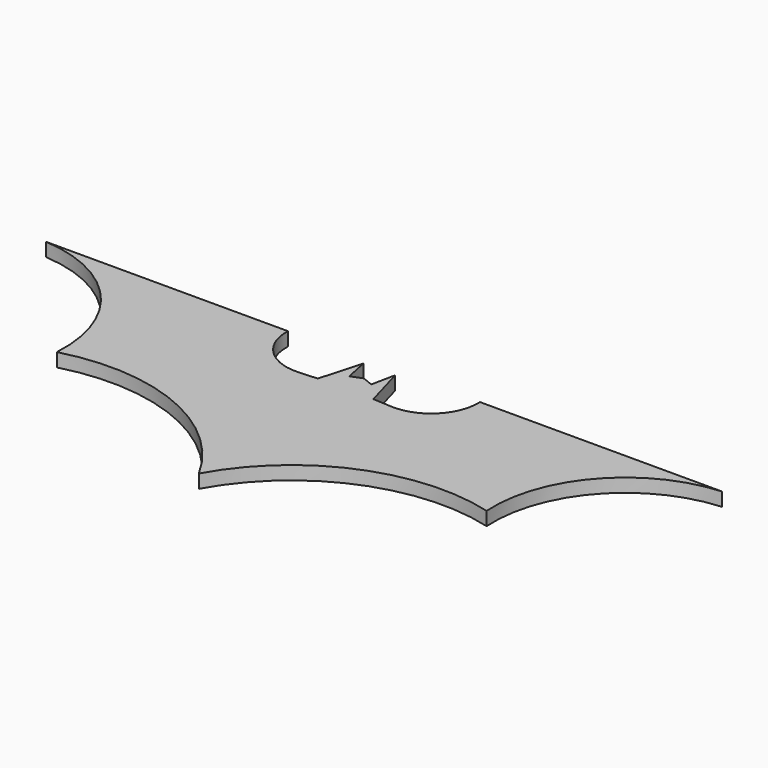
from build123d import *

# Parameters (mm, degrees)
PAD_DEPTH = 3


with BuildPart() as part:
    # Sketch → Pad (new body)
    with BuildSketch(Plane.XY):
        with BuildLine():
            Line((0, 0), (0, 14.502488))
            Line((0, 14.502488), (2.444644, 13.541802))
            Line((2.444644, 13.541802), (3.525413, 18.825575))
            Line((3.525413, 18.825575), (6.167308, 9.459041))
            Line((6.167308, 9.459041), (10.250262, 9.218303))
            ThreePointArc((10.250262, 9.218303), (18.202038, 12.211905), (21.296978, 20.124789))
            Line((21.296978, 20.124789), (75, 20.124789))
            ThreePointArc((75, 20.124789), (54.90279, 10.195186), (47.700768, -11.032761))
            ThreePointArc((47.700768, -11.032761), (20.35465, -12.880568), (0, -31.235753))
            Line((0, -31.235753), (0, 0))
        make_face()
    pad = extrude(amount=PAD_DEPTH)

    # Mirrored: Pad across Sketch V_Axis
    add(pad.mirror(Plane(origin=(0, 0, 0), x_dir=(0, 0, 1), z_dir=(1, 0, 0))))


solid = part.part
